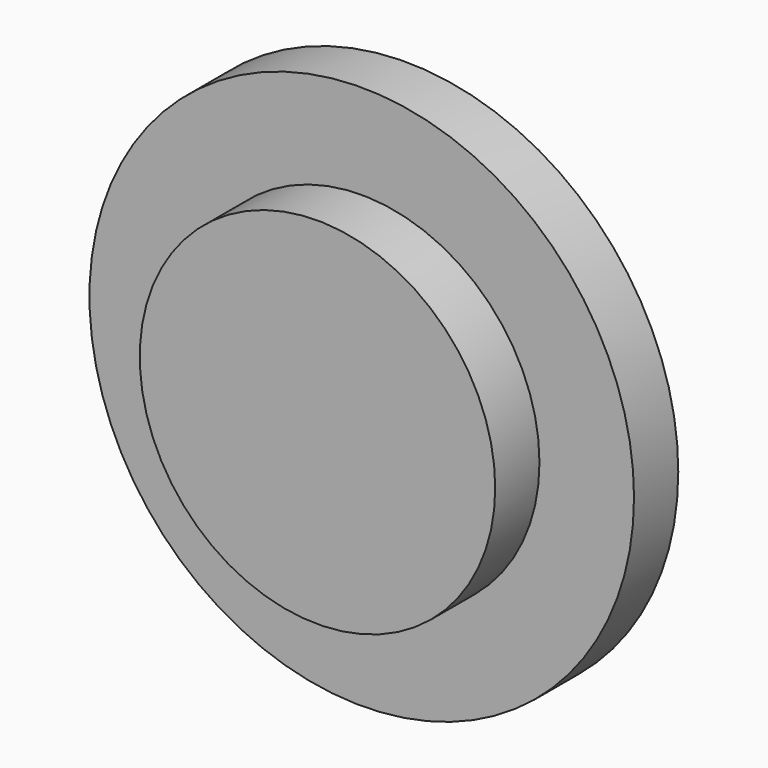
from build123d import *

# Parameters (mm, degrees)
F0_R     = 22.491971
F1_DEPTH = 7
F0_R_2   = 34.458189
F2_DEPTH = 7


with BuildPart() as f1:
    # F0 (on Front) → F1 (new body)
    with BuildSketch(Plane.XZ):
        with Locations((-111.468591, 33.74977)):
            Circle(F0_R)
    extrude(amount=F1_DEPTH)


with BuildPart() as f2:
    # F0 (on Front) → F2 (new body)
    with BuildSketch(Plane.XZ):
        with Locations((-111.468591, 33.74977)):
            Circle(F0_R_2)
        with Locations((-111.468591, 33.74977)):
            Circle(F0_R, mode=Mode.SUBTRACT)
    extrude(amount=-F2_DEPTH)


solid = Compound([f1.part, f2.part])
